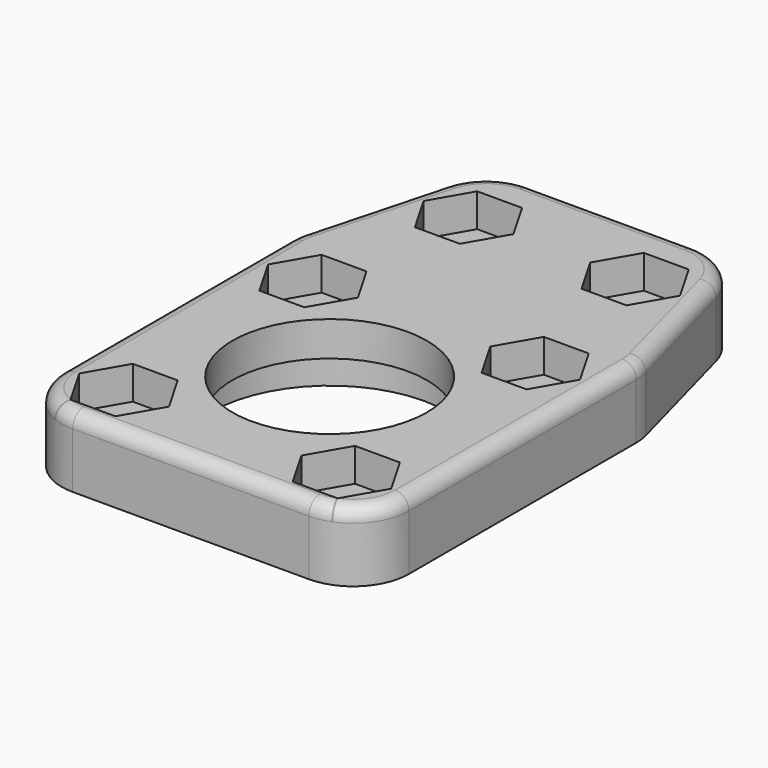
from build123d import *

# Parameters (mm, degrees)
SKETCH_R        = 7
PAD_DEPTH       = 5
SKETCH001_R     = 8.5
SKETCH001_W     = 6.2
SKETCH001_H     = 20
POCKET_DEPTH    = 2.5
FILLET_R        = 4
FILLET001_R     = 4
POCKET001_DEPTH = 2.4
SKETCH003_R     = 1.7
POCKET002_DEPTH = 2.4
FILLET002_R     = 4
FILLET003_R     = 4
FILLET004_R     = 4
FILLET005_R     = 4
FILLET006_R     = 1


with BuildPart() as part:
    # Sketch → Pad (new body)
    with BuildSketch(Plane.XY):
        Polygon((-12.5, -12.5), (12.5, -12.5), (12.5, 12.5), (9, 25.5), (-9, 25.5), (-12.5, 12.5), align=None)
        Circle(SKETCH_R, mode=Mode.SUBTRACT)
    extrude(amount=PAD_DEPTH)

    # Sketch001 → Pocket (cut)
    with BuildSketch(Plane(origin=(0, 0, 0), x_dir=(1, 0, 0), z_dir=(0, 0, -1))):
        Circle(SKETCH001_R)
        with Locations((0, -20)):
            Rectangle(SKETCH001_W, SKETCH001_H)
    extrude(amount=-POCKET_DEPTH, mode=Mode.SUBTRACT)

    # Fillet
    fillet_edges = [part.edges().sort_by_distance(p)[0] for p in [
        (-12.5, -12.5, 2.5),
    ]]
    fillet(fillet_edges, radius=FILLET_R)

    # Fillet001
    fillet001_edges = [part.edges().sort_by_distance(p)[0] for p in [
        (12.5, -12.5, 2.5),
    ]]
    fillet(fillet001_edges, radius=FILLET001_R)

    # Sketch002 → Pocket001 (cut)
    with BuildSketch(Plane.XY.offset(5)):
        Polygon((-9.616581, 11.3), (-11.233162, 8.5), (-9.616581, 5.7), (-6.383419, 5.7), (-4.766838, 8.5), (-6.383419, 11.3), align=None)
        Polygon((6.383419, 11.3), (4.766838, 8.5), (6.383419, 5.7), (9.616581, 5.7), (11.233162, 8.5), (9.616581, 11.3), align=None)
        Polygon((-9.616581, -5.7), (-11.233162, -8.5), (-9.616581, -11.3), (-6.383419, -11.3), (-4.766838, -8.5), (-6.383419, -5.7), align=None)
        Polygon((6.383419, -5.7), (4.766838, -8.5), (6.383419, -11.3), (9.616581, -11.3), (11.233162, -8.5), (9.616581, -5.7), align=None)
        Polygon((-7.616581, 22.8), (-9.233162, 20), (-7.616581, 17.2), (-4.383419, 17.2), (-2.766838, 20), (-4.383419, 22.8), align=None)
        Polygon((4.383419, 22.8), (2.766838, 20), (4.383419, 17.2), (7.616581, 17.2), (9.233162, 20), (7.616581, 22.8), align=None)
    extrude(amount=-POCKET001_DEPTH, mode=Mode.SUBTRACT)

    # Sketch003 → Pocket002 (cut)
    with BuildSketch(Plane(origin=(0, 0, 0), x_dir=(1, 0, 0), z_dir=(0, 0, -1))):
        with Locations((-8, 8.5)):
            Circle(SKETCH003_R)
        with Locations((8, 8.5)):
            Circle(SKETCH003_R)
        with Locations((-8, -8.5)):
            Circle(SKETCH003_R)
        with Locations((8, -8.5)):
            Circle(SKETCH003_R)
        with Locations((-6, -20)):
            Circle(SKETCH003_R)
        with Locations((6, -20)):
            Circle(SKETCH003_R)
    extrude(amount=-POCKET002_DEPTH, mode=Mode.SUBTRACT)

    # Fillet002
    fillet002_edges = [part.edges().sort_by_distance(p)[0] for p in [
        (12.5, 12.5, 2.5),
    ]]
    fillet(fillet002_edges, radius=FILLET002_R)

    # Fillet003
    fillet003_edges = [part.edges().sort_by_distance(p)[0] for p in [
        (-12.5, 12.5, 2.5),
    ]]
    fillet(fillet003_edges, radius=FILLET003_R)

    # Fillet004
    fillet004_edges = [part.edges().sort_by_distance(p)[0] for p in [
        (-9, 25.5, 2.5),
    ]]
    fillet(fillet004_edges, radius=FILLET004_R)

    # Fillet005
    fillet005_edges = [part.edges().sort_by_distance(p)[0] for p in [
        (9, 25.5, 2.5),
    ]]
    fillet(fillet005_edges, radius=FILLET005_R)

    # Fillet006
    fillet006_edges = [part.edges().sort_by_distance(p)[0] for p in [
        (11.079707, 17.775373, 5),
    ]]
    fillet(fillet006_edges, radius=FILLET006_R)


solid = part.part
